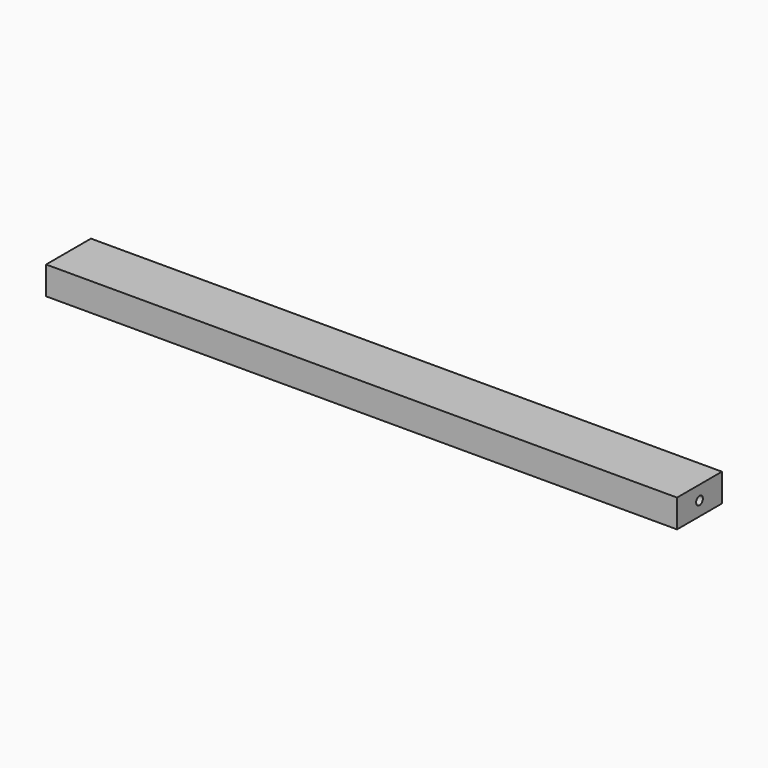
from build123d import *

# Parameters (mm, degrees)
F0_W     = 40
F0_H     = 20
F1_DEPTH = 450
F2_R     = 3
F3_DEPTH = 15
F4_R     = 3
F5_DEPTH = 15


with BuildPart() as f1:
    # F0 (on Right) → F1 (new body)
    with BuildSketch(Plane.YZ):
        with Locations((20, 10)):
            Rectangle(F0_W, F0_H)
    extrude(amount=F1_DEPTH)

    # F2 (on face) → F3 (cut)
    with BuildSketch(Plane.YZ.offset(450)):
        with Locations((20, 10)):
            Circle(F2_R)
    extrude(amount=-F3_DEPTH, mode=Mode.SUBTRACT)

    # F4 (on face) → F5 (cut)
    with BuildSketch(Plane(origin=(0, 0, 0), x_dir=(0, -1, 0), z_dir=(-1, 0, 0))):
        with Locations((-30, 10)):
            Circle(F4_R)
    extrude(amount=-F5_DEPTH, mode=Mode.SUBTRACT)


solid = f1.part
